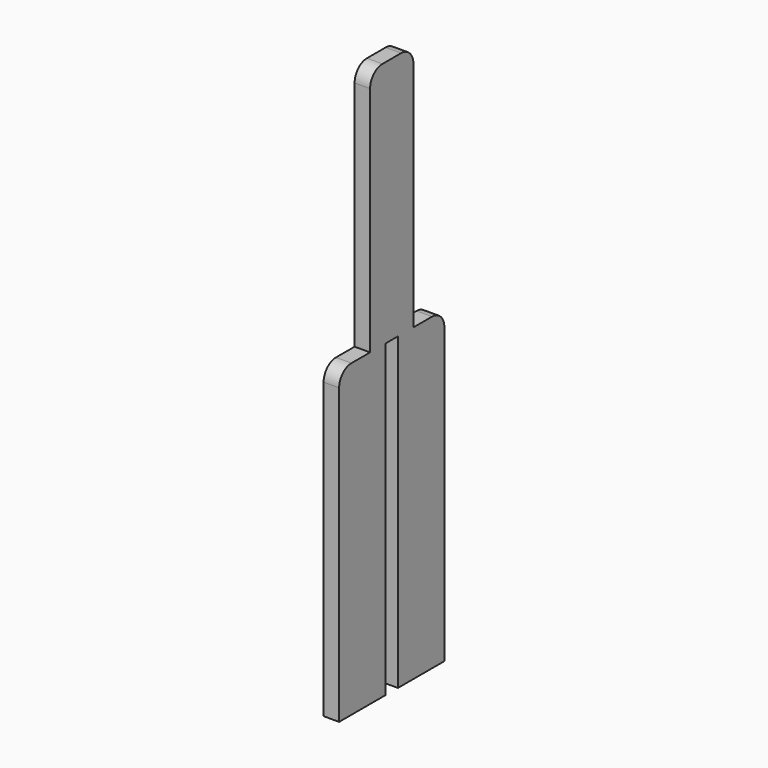
from build123d import *

# Parameters (mm, degrees)
F1_DEPTH = 3.175


with BuildPart() as f1:
    # F0 (on Right) → F1 (new body, symmetric)
    with BuildSketch(Plane.YZ):
        with BuildLine():
            Line((3.175, -63.5), (26.9875, -63.5))
            Line((26.9875, -63.5), (26.9875, 57.15))
            ThreePointArc((26.9875, 57.15), (25.127628, 61.640128), (20.6375, 63.5))
            Line((20.6375, 63.5), (17.464617, 63.5))
            Line((17.464617, 63.5), (11.113911, 63.5))
            Line((11.113911, 63.5), (11.124494, 158.749293))
            ThreePointArc((11.124494, 158.749293), (9.264872, 163.239877), (4.774494, 165.099999))
            Line((4.774494, 165.099999), (-4.7498, 165.099999))
            ThreePointArc((-4.7498, 165.099999), (-9.239928, 163.240127), (-11.0998, 158.749999))
            Line((-11.0998, 158.749999), (-11.0998, 63.5))
            Line((-11.0998, 63.5), (-17.4498, 63.5))
            Line((-17.4498, 63.5), (-20.6375, 63.5))
            ThreePointArc((-20.6375, 63.5), (-25.127628, 61.640128), (-26.9875, 57.15))
            Line((-26.9875, 57.15), (-26.9875, -63.5))
            Line((-26.9875, -63.5), (-3.175, -63.5))
            Line((-3.175, -63.5), (-3.175, 63.5))
            Line((-3.175, 63.5), (3.175, 63.5))
            Line((3.175, 63.5), (3.175, -63.5))
        make_face()
    extrude(amount=F1_DEPTH, both=True)


solid = f1.part
